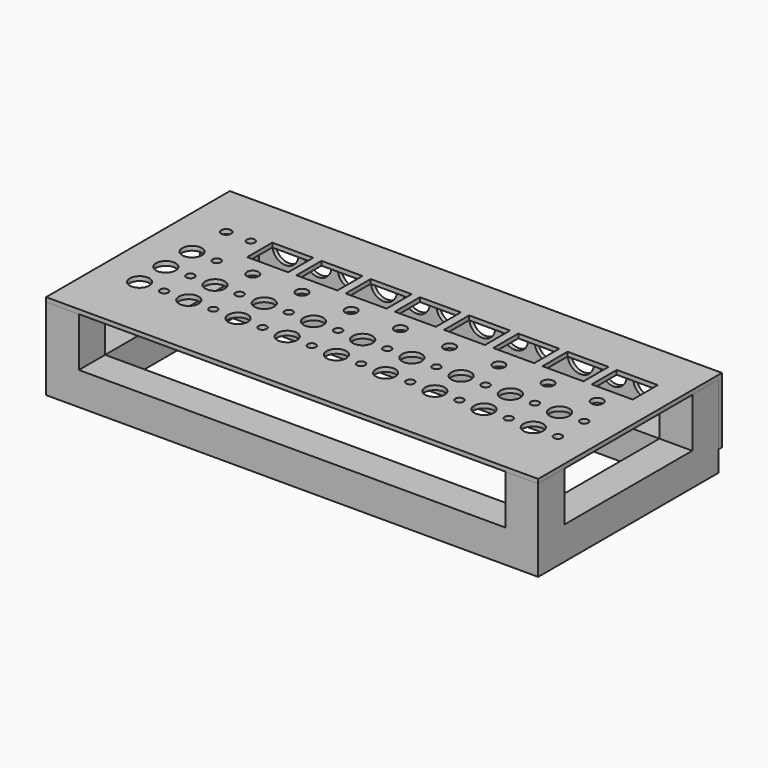
from build123d import *

# Parameters (mm, degrees)
BOX011_W          = 20
BOX011_H          = 20
BOX011_DEPTH      = 50
BOX012_W          = 20
BOX012_H          = 20
BOX012_DEPTH      = 50
BOX013_W          = 20
BOX013_H          = 20
BOX013_DEPTH      = 50
BOX014_W          = 260
BOX014_H          = 20
BOX014_DEPTH      = 20
BOX015_W          = 260
BOX015_H          = 20
BOX015_DEPTH      = 20
BOX016_W          = 20
BOX016_H          = 97.4
BOX016_DEPTH      = 20
BOX017_W          = 20
BOX017_H          = 97.4
BOX017_DEPTH      = 20
BOX010_W          = 20
BOX010_H          = 20
BOX010_DEPTH      = 50
CYLINDER083_R     = 8
CYLINDER083_DEPTH = 10
CYLINDER084_R     = 8
CYLINDER084_DEPTH = 10
CYLINDER085_R     = 8
CYLINDER085_DEPTH = 10
CYLINDER086_R     = 8
CYLINDER086_DEPTH = 10
CYLINDER087_R     = 8
CYLINDER087_DEPTH = 10
CYLINDER088_R     = 8
CYLINDER088_DEPTH = 10
CYLINDER089_R     = 8
CYLINDER089_DEPTH = 10
CYLINDER090_R     = 8
CYLINDER090_DEPTH = 10
CYLINDER091_R     = 8
CYLINDER091_DEPTH = 10
CYLINDER092_R     = 8
CYLINDER092_DEPTH = 10
CYLINDER093_R     = 8
CYLINDER093_DEPTH = 10
CYLINDER082_R     = 8
CYLINDER082_DEPTH = 10
CYLINDER094_R     = 2.5
CYLINDER094_DEPTH = 10
CYLINDER095_R     = 3
CYLINDER095_DEPTH = 10
CYLINDER041_R     = 2.5
CYLINDER041_DEPTH = 10
CYLINDER042_R     = 6
CYLINDER042_DEPTH = 10
CYLINDER043_R     = 2.5
CYLINDER043_DEPTH = 10
CYLINDER044_R     = 6
CYLINDER044_DEPTH = 10
CYLINDER045_R     = 6
CYLINDER045_DEPTH = 10
CYLINDER040_R     = 6
CYLINDER040_DEPTH = 10
CYLINDER039_R     = 2.5
CYLINDER039_DEPTH = 10
CYLINDER038_R     = 3.6
CYLINDER038_DEPTH = 10
BOX002_W          = 25
BOX002_H          = 19.1
BOX002_DEPTH      = 10
CYLINDER046_R     = 2.5
CYLINDER046_DEPTH = 10
CYLINDER050_R     = 6
CYLINDER050_DEPTH = 10
CYLINDER049_R     = 6
CYLINDER049_DEPTH = 10
CYLINDER048_R     = 2.5
CYLINDER048_DEPTH = 10
CYLINDER047_R     = 3.6
CYLINDER047_DEPTH = 10
BOX003_W          = 25
BOX003_H          = 19.1
BOX003_DEPTH      = 10
CYLINDER051_R     = 2.5
CYLINDER051_DEPTH = 10
CYLINDER055_R     = 6
CYLINDER055_DEPTH = 10
CYLINDER054_R     = 6
CYLINDER054_DEPTH = 10
CYLINDER053_R     = 2.5
CYLINDER053_DEPTH = 10
CYLINDER052_R     = 3.6
CYLINDER052_DEPTH = 10
BOX004_W          = 25
BOX004_H          = 19.1
BOX004_DEPTH      = 10
CYLINDER056_R     = 2.5
CYLINDER056_DEPTH = 10
CYLINDER060_R     = 6
CYLINDER060_DEPTH = 10
CYLINDER059_R     = 6
CYLINDER059_DEPTH = 10
CYLINDER058_R     = 2.5
CYLINDER058_DEPTH = 10
CYLINDER057_R     = 3.6
CYLINDER057_DEPTH = 10
BOX005_W          = 25
BOX005_H          = 19.1
BOX005_DEPTH      = 10
CYLINDER061_R     = 2.5
CYLINDER061_DEPTH = 10
CYLINDER065_R     = 6
CYLINDER065_DEPTH = 10
CYLINDER064_R     = 6
CYLINDER064_DEPTH = 10
CYLINDER063_R     = 2.5
CYLINDER063_DEPTH = 10
CYLINDER062_R     = 3.6
CYLINDER062_DEPTH = 10
BOX006_W          = 25
BOX006_H          = 19.1
BOX006_DEPTH      = 10
CYLINDER066_R     = 2.5
CYLINDER066_DEPTH = 10
CYLINDER070_R     = 6
CYLINDER070_DEPTH = 10
CYLINDER069_R     = 6
CYLINDER069_DEPTH = 10
CYLINDER068_R     = 2.5
CYLINDER068_DEPTH = 10
CYLINDER067_R     = 3.6
CYLINDER067_DEPTH = 10
BOX007_W          = 25
BOX007_H          = 19.1
BOX007_DEPTH      = 10
CYLINDER071_R     = 2.5
CYLINDER071_DEPTH = 10
CYLINDER075_R     = 6
CYLINDER075_DEPTH = 10
CYLINDER074_R     = 6
CYLINDER074_DEPTH = 10
CYLINDER073_R     = 2.5
CYLINDER073_DEPTH = 10
CYLINDER072_R     = 3.6
CYLINDER072_DEPTH = 10
BOX008_W          = 25
BOX008_H          = 19.1
BOX008_DEPTH      = 10
CYLINDER076_R     = 2.5
CYLINDER076_DEPTH = 10
CYLINDER080_R     = 6
CYLINDER080_DEPTH = 10
CYLINDER079_R     = 6
CYLINDER079_DEPTH = 10
CYLINDER078_R     = 2.5
CYLINDER078_DEPTH = 10
CYLINDER077_R     = 3.6
CYLINDER077_DEPTH = 10
BOX009_W          = 25
BOX009_H          = 19.1
BOX009_DEPTH      = 10
CYLINDER081_R     = 2.5
CYLINDER081_DEPTH = 10
CYLINDER_R        = 2.5
CYLINDER_DEPTH    = 10
CYLINDER019_R     = 6
CYLINDER019_DEPTH = 10
BOX001_W          = 300
BOX001_H          = 137.4
BOX001_DEPTH      = 37.4
BOX_W             = 300
BOX_H             = 140
BOX_DEPTH         = 40


with BuildPart() as obj1:
    # Box011 → Box011 (new body)
    with BuildSketch(Plane(origin=(280, 117.4, -12.6), x_dir=(1, 0, 0), z_dir=(0, 0, 1))):
        with Locations((10, 10)):
            Rectangle(BOX011_W, BOX011_H)
    extrude(amount=BOX011_DEPTH)


with BuildPart() as obj2:
    # Box012 → Box012 (new body)
    with BuildSketch(Plane.XY.offset(-12.6)):
        with Locations((10, 10)):
            Rectangle(BOX012_W, BOX012_H)
    extrude(amount=BOX012_DEPTH)


with BuildPart() as obj3:
    # Box013 → Box013 (new body)
    with BuildSketch(Plane(origin=(280, 0, -12.6), x_dir=(1, 0, 0), z_dir=(0, 0, 1))):
        with Locations((10, 10)):
            Rectangle(BOX013_W, BOX013_H)
    extrude(amount=BOX013_DEPTH)


with BuildPart() as obj4:
    # Box014 → Box014 (new body)
    with BuildSketch(Plane(origin=(20, 0, -12.6), x_dir=(1, 0, 0), z_dir=(0, 0, 1))):
        with Locations((130, 10)):
            Rectangle(BOX014_W, BOX014_H)
    extrude(amount=BOX014_DEPTH)


with BuildPart() as obj5:
    # Box015 → Box015 (new body)
    with BuildSketch(Plane(origin=(20, 117.4, -12.6), x_dir=(1, 0, 0), z_dir=(0, 0, 1))):
        with Locations((130, 10)):
            Rectangle(BOX015_W, BOX015_H)
    extrude(amount=BOX015_DEPTH)


with BuildPart() as obj6:
    # Box016 → Box016 (new body)
    with BuildSketch(Plane(origin=(0, 20, -12.6), x_dir=(1, 0, 0), z_dir=(0, 0, 1))):
        with Locations((10, 48.7)):
            Rectangle(BOX016_W, BOX016_H)
    extrude(amount=BOX016_DEPTH)


with BuildPart() as obj7:
    # Box017 → Box017 (new body)
    with BuildSketch(Plane(origin=(280, 20, -12.6), x_dir=(1, 0, 0), z_dir=(0, 0, 1))):
        with Locations((10, 48.7)):
            Rectangle(BOX017_W, BOX017_H)
    extrude(amount=BOX017_DEPTH)


with BuildPart() as obj8:
    # Box010 → Box010 (new body)
    with BuildSketch(Plane(origin=(0, 117.4, -12.6), x_dir=(1, 0, 0), z_dir=(0, 0, 1))):
        with Locations((10, 10)):
            Rectangle(BOX010_W, BOX010_H)
    extrude(amount=BOX010_DEPTH)

    # Fusion015: union obj1, obj2, obj3, obj4, obj5, obj6, obj7
    add(obj1.part)
    add(obj2.part)
    add(obj3.part)
    add(obj4.part)
    add(obj5.part)
    add(obj6.part)
    add(obj7.part)


with BuildPart() as obj9:
    # Cylinder083 → Cylinder083 (new body)
    with BuildSketch(Plane(origin=(53, 145, 21), x_dir=(1, 0, 0), z_dir=(0, -1, 0))):
        Circle(CYLINDER083_R)
    extrude(amount=CYLINDER083_DEPTH)


with BuildPart() as obj10:
    # Cylinder084 → Cylinder084 (new body)
    with BuildSketch(Plane(origin=(73, 145, 21), x_dir=(1, 0, 0), z_dir=(0, -1, 0))):
        Circle(CYLINDER084_R)
    extrude(amount=CYLINDER084_DEPTH)


with BuildPart() as obj11:
    # Cylinder085 → Cylinder085 (new body)
    with BuildSketch(Plane(origin=(93, 145, 21), x_dir=(1, 0, 0), z_dir=(0, -1, 0))):
        Circle(CYLINDER085_R)
    extrude(amount=CYLINDER085_DEPTH)


with BuildPart() as cylinder086:
    # Cylinder086 → Cylinder086 (new body)
    with BuildSketch(Plane(origin=(113, 145, 21), x_dir=(1, 0, 0), z_dir=(0, -1, 0))):
        Circle(CYLINDER086_R)
    extrude(amount=CYLINDER086_DEPTH)


with BuildPart() as cylinder087:
    # Cylinder087 → Cylinder087 (new body)
    with BuildSketch(Plane(origin=(133, 145, 21), x_dir=(1, 0, 0), z_dir=(0, -1, 0))):
        Circle(CYLINDER087_R)
    extrude(amount=CYLINDER087_DEPTH)


with BuildPart() as cylinder088:
    # Cylinder088 → Cylinder088 (new body)
    with BuildSketch(Plane(origin=(153, 145, 21), x_dir=(1, 0, 0), z_dir=(0, -1, 0))):
        Circle(CYLINDER088_R)
    extrude(amount=CYLINDER088_DEPTH)


with BuildPart() as cylinder089:
    # Cylinder089 → Cylinder089 (new body)
    with BuildSketch(Plane(origin=(173, 145, 21), x_dir=(1, 0, 0), z_dir=(0, -1, 0))):
        Circle(CYLINDER089_R)
    extrude(amount=CYLINDER089_DEPTH)


with BuildPart() as cylinder090:
    # Cylinder090 → Cylinder090 (new body)
    with BuildSketch(Plane(origin=(193, 145, 21), x_dir=(1, 0, 0), z_dir=(0, -1, 0))):
        Circle(CYLINDER090_R)
    extrude(amount=CYLINDER090_DEPTH)


with BuildPart() as cylinder091:
    # Cylinder091 → Cylinder091 (new body)
    with BuildSketch(Plane(origin=(213, 145, 21), x_dir=(1, 0, 0), z_dir=(0, -1, 0))):
        Circle(CYLINDER091_R)
    extrude(amount=CYLINDER091_DEPTH)


with BuildPart() as cylinder092:
    # Cylinder092 → Cylinder092 (new body)
    with BuildSketch(Plane(origin=(233, 145, 21), x_dir=(1, 0, 0), z_dir=(0, -1, 0))):
        Circle(CYLINDER092_R)
    extrude(amount=CYLINDER092_DEPTH)


with BuildPart() as cylinder093:
    # Cylinder093 → Cylinder093 (new body)
    with BuildSketch(Plane(origin=(253, 145, 21), x_dir=(1, 0, 0), z_dir=(0, -1, 0))):
        Circle(CYLINDER093_R)
    extrude(amount=CYLINDER093_DEPTH)


with BuildPart() as obj12:
    # Cylinder082 → Cylinder082 (new body)
    with BuildSketch(Plane(origin=(33, 145, 21), x_dir=(1, 0, 0), z_dir=(0, -1, 0))):
        Circle(CYLINDER082_R)
    extrude(amount=CYLINDER082_DEPTH)

    # Fusion012: union obj9, obj10, obj11, Cylinder086, Cylinder087, Cylinder088, Cylinder089, Cylinder090, Cylinder091, Cylinder092, Cylinder093
    add(obj9.part)
    add(obj10.part)
    add(obj11.part)
    add(cylinder086.part)
    add(cylinder087.part)
    add(cylinder088.part)
    add(cylinder089.part)
    add(cylinder090.part)
    add(cylinder091.part)
    add(cylinder092.part)
    add(cylinder093.part)


with BuildPart() as obj12_1:
    # Fusion012 placement: moved
    add(obj12.part.moved(Location((3, 0, 0))))


with BuildPart() as cylinder094:
    # Cylinder094 → Cylinder094 (new body)
    with BuildSketch(Plane.XY):
        Circle(CYLINDER094_R)
    extrude(amount=CYLINDER094_DEPTH)


with BuildPart() as power_on:
    # Cylinder095 → Cylinder095 (new body)
    with BuildSketch(Plane(origin=(-15, 0, 0), x_dir=(1, 0, 0), z_dir=(0, 0, 1))):
        Circle(CYLINDER095_R)
    extrude(amount=CYLINDER095_DEPTH)

    # Fusion013: union Cylinder094
    add(cylinder094.part)


with BuildPart() as power_on_1:
    # Fusion013 placement: moved
    add(power_on.part.moved(Location((40, 106, 35))))


with BuildPart() as cylinder041:
    # Cylinder041 → Cylinder041 (new body)
    with BuildSketch(Plane.XY):
        Circle(CYLINDER041_R)
    extrude(amount=CYLINDER041_DEPTH)


with BuildPart() as obj13:
    # Cylinder042 → Cylinder042 (new body)
    with BuildSketch(Plane(origin=(-15, 0, 0), x_dir=(1, 0, 0), z_dir=(0, 0, 1))):
        Circle(CYLINDER042_R)
    extrude(amount=CYLINDER042_DEPTH)

    # Fusion001: union Cylinder041
    add(cylinder041.part)


with BuildPart() as obj13_1:
    # Fusion001 placement: moved
    add(obj13.part.moved(Location((0, 20, 0))))


with BuildPart() as cylinder043:
    # Cylinder043 → Cylinder043 (new body)
    with BuildSketch(Plane.XY):
        Circle(CYLINDER043_R)
    extrude(amount=CYLINDER043_DEPTH)


with BuildPart() as obj14:
    # Cylinder044 → Cylinder044 (new body)
    with BuildSketch(Plane(origin=(-15, 0, 0), x_dir=(1, 0, 0), z_dir=(0, 0, 1))):
        Circle(CYLINDER044_R)
    extrude(amount=CYLINDER044_DEPTH)

    # Fusion002: union Cylinder043
    add(cylinder043.part)


with BuildPart() as obj14_1:
    # Fusion002 placement: moved
    add(obj14.part.moved(Location((0, 40, 0))))


with BuildPart() as cylinder045:
    # Cylinder045 → Cylinder045 (new body)
    with BuildSketch(Plane(origin=(-15, 20, 0), x_dir=(1, 0, 0), z_dir=(0, 0, 1))):
        Circle(CYLINDER045_R)
    extrude(amount=CYLINDER045_DEPTH)


with BuildPart() as cylinder040:
    # Cylinder040 → Cylinder040 (new body)
    with BuildSketch(Plane(origin=(-15, 0, 0), x_dir=(1, 0, 0), z_dir=(0, 0, 1))):
        Circle(CYLINDER040_R)
    extrude(amount=CYLINDER040_DEPTH)


with BuildPart() as cylinder039:
    # Cylinder039 → Cylinder039 (new body)
    with BuildSketch(Plane.XY):
        Circle(CYLINDER039_R)
    extrude(amount=CYLINDER039_DEPTH)


with BuildPart() as cylinder038:
    # Cylinder038 → Cylinder038 (new body)
    with BuildSketch(Plane(origin=(-8, 40, 0), x_dir=(1, 0, 0), z_dir=(0, 0, 1))):
        Circle(CYLINDER038_R)
    extrude(amount=CYLINDER038_DEPTH)


with BuildPart() as box002:
    # Box002 → Box002 (new body)
    with BuildSketch(Plane(origin=(-21, 52, 0), x_dir=(1, 0, 0), z_dir=(0, 0, 1))):
        with Locations((12.5, 9.55)):
            Rectangle(BOX002_W, BOX002_H)
    extrude(amount=BOX002_DEPTH)


with BuildPart() as fusion003:
    # Cylinder046 → Cylinder046 (new body)
    with BuildSketch(Plane(origin=(0, 20, 0), x_dir=(1, 0, 0), z_dir=(0, 0, 1))):
        Circle(CYLINDER046_R)
    extrude(amount=CYLINDER046_DEPTH)

    # Fusion003: union Cylinder045, Cylinder040, Cylinder039, Cylinder038, Box002
    add(cylinder045.part)
    add(cylinder040.part)
    add(cylinder039.part)
    add(cylinder038.part)
    add(box002.part)


with BuildPart() as fusion003_1:
    # Fusion003 placement: moved
    add(fusion003.part.moved(Location((30, 0, 0))))


with BuildPart() as cylinder050:
    # Cylinder050 → Cylinder050 (new body)
    with BuildSketch(Plane(origin=(-15, 20, 0), x_dir=(1, 0, 0), z_dir=(0, 0, 1))):
        Circle(CYLINDER050_R)
    extrude(amount=CYLINDER050_DEPTH)


with BuildPart() as cylinder049:
    # Cylinder049 → Cylinder049 (new body)
    with BuildSketch(Plane(origin=(-15, 0, 0), x_dir=(1, 0, 0), z_dir=(0, 0, 1))):
        Circle(CYLINDER049_R)
    extrude(amount=CYLINDER049_DEPTH)


with BuildPart() as cylinder048:
    # Cylinder048 → Cylinder048 (new body)
    with BuildSketch(Plane.XY):
        Circle(CYLINDER048_R)
    extrude(amount=CYLINDER048_DEPTH)


with BuildPart() as cylinder047:
    # Cylinder047 → Cylinder047 (new body)
    with BuildSketch(Plane(origin=(-8, 40, 0), x_dir=(1, 0, 0), z_dir=(0, 0, 1))):
        Circle(CYLINDER047_R)
    extrude(amount=CYLINDER047_DEPTH)


with BuildPart() as box003:
    # Box003 → Box003 (new body)
    with BuildSketch(Plane(origin=(-21, 52, 0), x_dir=(1, 0, 0), z_dir=(0, 0, 1))):
        with Locations((12.5, 9.55)):
            Rectangle(BOX003_W, BOX003_H)
    extrude(amount=BOX003_DEPTH)


with BuildPart() as fusion004:
    # Cylinder051 → Cylinder051 (new body)
    with BuildSketch(Plane(origin=(0, 20, 0), x_dir=(1, 0, 0), z_dir=(0, 0, 1))):
        Circle(CYLINDER051_R)
    extrude(amount=CYLINDER051_DEPTH)

    # Fusion004: union Cylinder050, Cylinder049, Cylinder048, Cylinder047, Box003
    add(cylinder050.part)
    add(cylinder049.part)
    add(cylinder048.part)
    add(cylinder047.part)
    add(box003.part)


with BuildPart() as fusion004_1:
    # Fusion004 placement: moved
    add(fusion004.part.moved(Location((60, 0, 0))))


with BuildPart() as cylinder055:
    # Cylinder055 → Cylinder055 (new body)
    with BuildSketch(Plane(origin=(-15, 20, 0), x_dir=(1, 0, 0), z_dir=(0, 0, 1))):
        Circle(CYLINDER055_R)
    extrude(amount=CYLINDER055_DEPTH)


with BuildPart() as cylinder054:
    # Cylinder054 → Cylinder054 (new body)
    with BuildSketch(Plane(origin=(-15, 0, 0), x_dir=(1, 0, 0), z_dir=(0, 0, 1))):
        Circle(CYLINDER054_R)
    extrude(amount=CYLINDER054_DEPTH)


with BuildPart() as cylinder053:
    # Cylinder053 → Cylinder053 (new body)
    with BuildSketch(Plane.XY):
        Circle(CYLINDER053_R)
    extrude(amount=CYLINDER053_DEPTH)


with BuildPart() as cylinder052:
    # Cylinder052 → Cylinder052 (new body)
    with BuildSketch(Plane(origin=(-8, 40, 0), x_dir=(1, 0, 0), z_dir=(0, 0, 1))):
        Circle(CYLINDER052_R)
    extrude(amount=CYLINDER052_DEPTH)


with BuildPart() as box004:
    # Box004 → Box004 (new body)
    with BuildSketch(Plane(origin=(-21, 52, 0), x_dir=(1, 0, 0), z_dir=(0, 0, 1))):
        with Locations((12.5, 9.55)):
            Rectangle(BOX004_W, BOX004_H)
    extrude(amount=BOX004_DEPTH)


with BuildPart() as fusion005:
    # Cylinder056 → Cylinder056 (new body)
    with BuildSketch(Plane(origin=(0, 20, 0), x_dir=(1, 0, 0), z_dir=(0, 0, 1))):
        Circle(CYLINDER056_R)
    extrude(amount=CYLINDER056_DEPTH)

    # Fusion005: union Cylinder055, Cylinder054, Cylinder053, Cylinder052, Box004
    add(cylinder055.part)
    add(cylinder054.part)
    add(cylinder053.part)
    add(cylinder052.part)
    add(box004.part)


with BuildPart() as fusion005_1:
    # Fusion005 placement: moved
    add(fusion005.part.moved(Location((90, 0, 0))))


with BuildPart() as cylinder060:
    # Cylinder060 → Cylinder060 (new body)
    with BuildSketch(Plane(origin=(-15, 20, 0), x_dir=(1, 0, 0), z_dir=(0, 0, 1))):
        Circle(CYLINDER060_R)
    extrude(amount=CYLINDER060_DEPTH)


with BuildPart() as cylinder059:
    # Cylinder059 → Cylinder059 (new body)
    with BuildSketch(Plane(origin=(-15, 0, 0), x_dir=(1, 0, 0), z_dir=(0, 0, 1))):
        Circle(CYLINDER059_R)
    extrude(amount=CYLINDER059_DEPTH)


with BuildPart() as cylinder058:
    # Cylinder058 → Cylinder058 (new body)
    with BuildSketch(Plane.XY):
        Circle(CYLINDER058_R)
    extrude(amount=CYLINDER058_DEPTH)


with BuildPart() as cylinder057:
    # Cylinder057 → Cylinder057 (new body)
    with BuildSketch(Plane(origin=(-8, 40, 0), x_dir=(1, 0, 0), z_dir=(0, 0, 1))):
        Circle(CYLINDER057_R)
    extrude(amount=CYLINDER057_DEPTH)


with BuildPart() as box005:
    # Box005 → Box005 (new body)
    with BuildSketch(Plane(origin=(-21, 52, 0), x_dir=(1, 0, 0), z_dir=(0, 0, 1))):
        with Locations((12.5, 9.55)):
            Rectangle(BOX005_W, BOX005_H)
    extrude(amount=BOX005_DEPTH)


with BuildPart() as fusion006:
    # Cylinder061 → Cylinder061 (new body)
    with BuildSketch(Plane(origin=(0, 20, 0), x_dir=(1, 0, 0), z_dir=(0, 0, 1))):
        Circle(CYLINDER061_R)
    extrude(amount=CYLINDER061_DEPTH)

    # Fusion006: union Cylinder060, Cylinder059, Cylinder058, Cylinder057, Box005
    add(cylinder060.part)
    add(cylinder059.part)
    add(cylinder058.part)
    add(cylinder057.part)
    add(box005.part)


with BuildPart() as fusion006_1:
    # Fusion006 placement: moved
    add(fusion006.part.moved(Location((120, 0, 0))))


with BuildPart() as cylinder065:
    # Cylinder065 → Cylinder065 (new body)
    with BuildSketch(Plane(origin=(-15, 20, 0), x_dir=(1, 0, 0), z_dir=(0, 0, 1))):
        Circle(CYLINDER065_R)
    extrude(amount=CYLINDER065_DEPTH)


with BuildPart() as cylinder064:
    # Cylinder064 → Cylinder064 (new body)
    with BuildSketch(Plane(origin=(-15, 0, 0), x_dir=(1, 0, 0), z_dir=(0, 0, 1))):
        Circle(CYLINDER064_R)
    extrude(amount=CYLINDER064_DEPTH)


with BuildPart() as cylinder063:
    # Cylinder063 → Cylinder063 (new body)
    with BuildSketch(Plane.XY):
        Circle(CYLINDER063_R)
    extrude(amount=CYLINDER063_DEPTH)


with BuildPart() as cylinder062:
    # Cylinder062 → Cylinder062 (new body)
    with BuildSketch(Plane(origin=(-8, 40, 0), x_dir=(1, 0, 0), z_dir=(0, 0, 1))):
        Circle(CYLINDER062_R)
    extrude(amount=CYLINDER062_DEPTH)


with BuildPart() as box006:
    # Box006 → Box006 (new body)
    with BuildSketch(Plane(origin=(-21, 52, 0), x_dir=(1, 0, 0), z_dir=(0, 0, 1))):
        with Locations((12.5, 9.55)):
            Rectangle(BOX006_W, BOX006_H)
    extrude(amount=BOX006_DEPTH)


with BuildPart() as fusion007:
    # Cylinder066 → Cylinder066 (new body)
    with BuildSketch(Plane(origin=(0, 20, 0), x_dir=(1, 0, 0), z_dir=(0, 0, 1))):
        Circle(CYLINDER066_R)
    extrude(amount=CYLINDER066_DEPTH)

    # Fusion007: union Cylinder065, Cylinder064, Cylinder063, Cylinder062, Box006
    add(cylinder065.part)
    add(cylinder064.part)
    add(cylinder063.part)
    add(cylinder062.part)
    add(box006.part)


with BuildPart() as fusion007_1:
    # Fusion007 placement: moved
    add(fusion007.part.moved(Location((150, 0, 0))))


with BuildPart() as cylinder070:
    # Cylinder070 → Cylinder070 (new body)
    with BuildSketch(Plane(origin=(-15, 20, 0), x_dir=(1, 0, 0), z_dir=(0, 0, 1))):
        Circle(CYLINDER070_R)
    extrude(amount=CYLINDER070_DEPTH)


with BuildPart() as cylinder069:
    # Cylinder069 → Cylinder069 (new body)
    with BuildSketch(Plane(origin=(-15, 0, 0), x_dir=(1, 0, 0), z_dir=(0, 0, 1))):
        Circle(CYLINDER069_R)
    extrude(amount=CYLINDER069_DEPTH)


with BuildPart() as cylinder068:
    # Cylinder068 → Cylinder068 (new body)
    with BuildSketch(Plane.XY):
        Circle(CYLINDER068_R)
    extrude(amount=CYLINDER068_DEPTH)


with BuildPart() as cylinder067:
    # Cylinder067 → Cylinder067 (new body)
    with BuildSketch(Plane(origin=(-8, 40, 0), x_dir=(1, 0, 0), z_dir=(0, 0, 1))):
        Circle(CYLINDER067_R)
    extrude(amount=CYLINDER067_DEPTH)


with BuildPart() as box007:
    # Box007 → Box007 (new body)
    with BuildSketch(Plane(origin=(-21, 52, 0), x_dir=(1, 0, 0), z_dir=(0, 0, 1))):
        with Locations((12.5, 9.55)):
            Rectangle(BOX007_W, BOX007_H)
    extrude(amount=BOX007_DEPTH)


with BuildPart() as fusion008:
    # Cylinder071 → Cylinder071 (new body)
    with BuildSketch(Plane(origin=(0, 20, 0), x_dir=(1, 0, 0), z_dir=(0, 0, 1))):
        Circle(CYLINDER071_R)
    extrude(amount=CYLINDER071_DEPTH)

    # Fusion008: union Cylinder070, Cylinder069, Cylinder068, Cylinder067, Box007
    add(cylinder070.part)
    add(cylinder069.part)
    add(cylinder068.part)
    add(cylinder067.part)
    add(box007.part)


with BuildPart() as fusion008_1:
    # Fusion008 placement: moved
    add(fusion008.part.moved(Location((180, 0, 0))))


with BuildPart() as cylinder075:
    # Cylinder075 → Cylinder075 (new body)
    with BuildSketch(Plane(origin=(-15, 20, 0), x_dir=(1, 0, 0), z_dir=(0, 0, 1))):
        Circle(CYLINDER075_R)
    extrude(amount=CYLINDER075_DEPTH)


with BuildPart() as cylinder074:
    # Cylinder074 → Cylinder074 (new body)
    with BuildSketch(Plane(origin=(-15, 0, 0), x_dir=(1, 0, 0), z_dir=(0, 0, 1))):
        Circle(CYLINDER074_R)
    extrude(amount=CYLINDER074_DEPTH)


with BuildPart() as cylinder073:
    # Cylinder073 → Cylinder073 (new body)
    with BuildSketch(Plane.XY):
        Circle(CYLINDER073_R)
    extrude(amount=CYLINDER073_DEPTH)


with BuildPart() as cylinder072:
    # Cylinder072 → Cylinder072 (new body)
    with BuildSketch(Plane(origin=(-8, 40, 0), x_dir=(1, 0, 0), z_dir=(0, 0, 1))):
        Circle(CYLINDER072_R)
    extrude(amount=CYLINDER072_DEPTH)


with BuildPart() as box008:
    # Box008 → Box008 (new body)
    with BuildSketch(Plane(origin=(-21, 52, 0), x_dir=(1, 0, 0), z_dir=(0, 0, 1))):
        with Locations((12.5, 9.55)):
            Rectangle(BOX008_W, BOX008_H)
    extrude(amount=BOX008_DEPTH)


with BuildPart() as fusion009:
    # Cylinder076 → Cylinder076 (new body)
    with BuildSketch(Plane(origin=(0, 20, 0), x_dir=(1, 0, 0), z_dir=(0, 0, 1))):
        Circle(CYLINDER076_R)
    extrude(amount=CYLINDER076_DEPTH)

    # Fusion009: union Cylinder075, Cylinder074, Cylinder073, Cylinder072, Box008
    add(cylinder075.part)
    add(cylinder074.part)
    add(cylinder073.part)
    add(cylinder072.part)
    add(box008.part)


with BuildPart() as fusion009_1:
    # Fusion009 placement: moved
    add(fusion009.part.moved(Location((210, 0, 0))))


with BuildPart() as cylinder080:
    # Cylinder080 → Cylinder080 (new body)
    with BuildSketch(Plane(origin=(-15, 20, 0), x_dir=(1, 0, 0), z_dir=(0, 0, 1))):
        Circle(CYLINDER080_R)
    extrude(amount=CYLINDER080_DEPTH)


with BuildPart() as cylinder079:
    # Cylinder079 → Cylinder079 (new body)
    with BuildSketch(Plane(origin=(-15, 0, 0), x_dir=(1, 0, 0), z_dir=(0, 0, 1))):
        Circle(CYLINDER079_R)
    extrude(amount=CYLINDER079_DEPTH)


with BuildPart() as cylinder078:
    # Cylinder078 → Cylinder078 (new body)
    with BuildSketch(Plane.XY):
        Circle(CYLINDER078_R)
    extrude(amount=CYLINDER078_DEPTH)


with BuildPart() as cylinder077:
    # Cylinder077 → Cylinder077 (new body)
    with BuildSketch(Plane(origin=(-8, 40, 0), x_dir=(1, 0, 0), z_dir=(0, 0, 1))):
        Circle(CYLINDER077_R)
    extrude(amount=CYLINDER077_DEPTH)


with BuildPart() as box009:
    # Box009 → Box009 (new body)
    with BuildSketch(Plane(origin=(-21, 52, 0), x_dir=(1, 0, 0), z_dir=(0, 0, 1))):
        with Locations((12.5, 9.55)):
            Rectangle(BOX009_W, BOX009_H)
    extrude(amount=BOX009_DEPTH)


with BuildPart() as fusion010:
    # Cylinder081 → Cylinder081 (new body)
    with BuildSketch(Plane(origin=(0, 20, 0), x_dir=(1, 0, 0), z_dir=(0, 0, 1))):
        Circle(CYLINDER081_R)
    extrude(amount=CYLINDER081_DEPTH)

    # Fusion010: union Cylinder080, Cylinder079, Cylinder078, Cylinder077, Box009
    add(cylinder080.part)
    add(cylinder079.part)
    add(cylinder078.part)
    add(cylinder077.part)
    add(box009.part)


with BuildPart() as fusion010_1:
    # Fusion010 placement: moved
    add(fusion010.part.moved(Location((240, 0, 0))))


with BuildPart() as cylinder:
    # Cylinder → Cylinder (new body)
    with BuildSketch(Plane.XY):
        Circle(CYLINDER_R)
    extrude(amount=CYLINDER_DEPTH)


with BuildPart() as fusion014:
    # Cylinder019 → Cylinder019 (new body)
    with BuildSketch(Plane(origin=(-15, 0, 0), x_dir=(1, 0, 0), z_dir=(0, 0, 1))):
        Circle(CYLINDER019_R)
    extrude(amount=CYLINDER019_DEPTH)

    # Fusion: union Cylinder
    add(cylinder.part)

    # Fusion011: union obj13, obj14, Fusion003, Fusion004, Fusion005, Fusion006, Fusion007, Fusion008, Fusion009, Fusion010
    add(obj13_1.part)
    add(obj14_1.part)
    add(fusion003_1.part)
    add(fusion004_1.part)
    add(fusion005_1.part)
    add(fusion006_1.part)
    add(fusion007_1.part)
    add(fusion008_1.part)
    add(fusion009_1.part)
    add(fusion010_1.part)


with BuildPart() as fusion014_1:
    # Fusion011 placement: moved
    add(fusion014.part.moved(Location((40, 40, 35))))

    # Fusion014: union obj12, POWER_ON
    add(obj12_1.part)
    add(power_on_1.part)


with BuildPart() as krychle001:
    # Box001 → Box001 (new body)
    with BuildSketch(Plane.XY):
        with Locations((150, 68.7)):
            Rectangle(BOX001_W, BOX001_H)
    extrude(amount=BOX001_DEPTH)


with BuildPart() as obj15:
    # Box → Box (new body)
    with BuildSketch(Plane.XY):
        with Locations((150, 70)):
            Rectangle(BOX_W, BOX_H)
    extrude(amount=BOX_DEPTH)

    # Cut: cut Krychle001
    add(krychle001.part, mode=Mode.SUBTRACT)

    # Cut001: cut Fusion014
    add(fusion014_1.part, mode=Mode.SUBTRACT)


solid = Compound([obj8.part, obj15.part])
